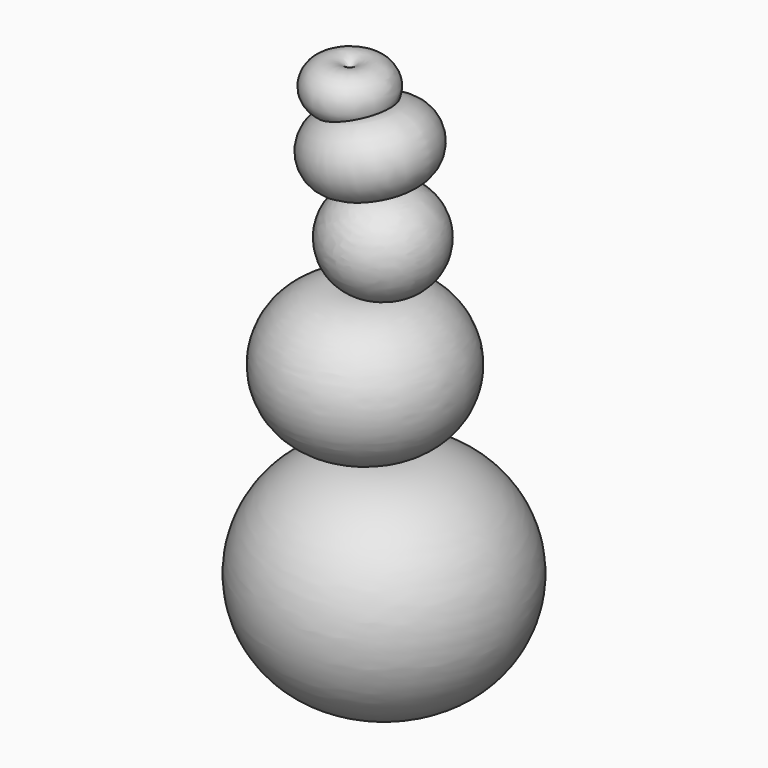
from build123d import *


with BuildPart() as f1:
    # F0 (on Front) → F1 (revolve)
    with BuildSketch(Plane.XZ):
        with BuildLine():
            ThreePointArc((-2.995026065, -78.8147090115), (34.8483644416, -47.0647090115), (-2.995026065, -15.3147090115))
            Line((-2.995026065, -15.3147090115), (-2.995026065, -78.8147090115))
        make_face()
    revolve(axis=Axis((-2.995026065, 0, -47.0647090115), (0, 0, -1)))


with BuildPart() as f3:
    # F2 (on Front) → F3 (revolve)
    with BuildSketch(Plane.XZ):
        with BuildLine():
            ThreePointArc((-8.6998380721, -13.4063092992), (19.0173478729, 6.2752948143), (-8.6998380721, 25.9568989277))
            Line((-8.6998380721, 25.9568989277), (-8.6998380721, -13.4063092992))
        make_face()
    revolve(axis=Axis((-8.6998380721, 0, 6.2752948143), (0, 0, -1)))


with BuildPart() as f5:
    # F4 (on Front) → F5 (revolve)
    with BuildSketch(Plane.XZ):
        with BuildLine():
            ThreePointArc((-3.3471086062, 27.552627027), (13.0498820393, 41.523154825), (-3.3471086062, 55.4936826229))
            Line((-3.3471086062, 55.4936826229), (-3.3471086062, 27.552627027))
        make_face()
    revolve(axis=Axis((-3.3471086062, 0, 41.523154825), (0, 0, -1)))

    # F6 (on Front) → F7 (revolve)
    with BuildSketch(Plane.XZ):
        with BuildLine():
            ThreePointArc((-5.572672002, 57.0647269487), (10.2860295921, 68.1891722377), (-8.7546370924, 71.753539145))
            Line((-8.7546370924, 71.753539145), (-5.572672002, 57.0647269487))
        make_face()
    revolve(axis=Axis((-7.1636545472, 0, 64.4091330469), (0.2117145236, 0, -0.977331551)))

    # F8 (on Front) → F9 (revolve)
    with BuildSketch(Plane.XZ):
        with BuildLine():
            ThreePointArc((-13.2831549272, 74.1192400455), (-0.9964724014, 78.3461369574), (-13.2831549272, 82.5730338693))
            Line((-13.2831549272, 82.5730338693), (-13.2831549272, 74.1192400455))
        make_face()
    revolve(axis=Axis((-13.2831549272, 0, 78.3461369574), (0, 0, -1)))


solid = Compound([f1.part, f3.part, f5.part])
